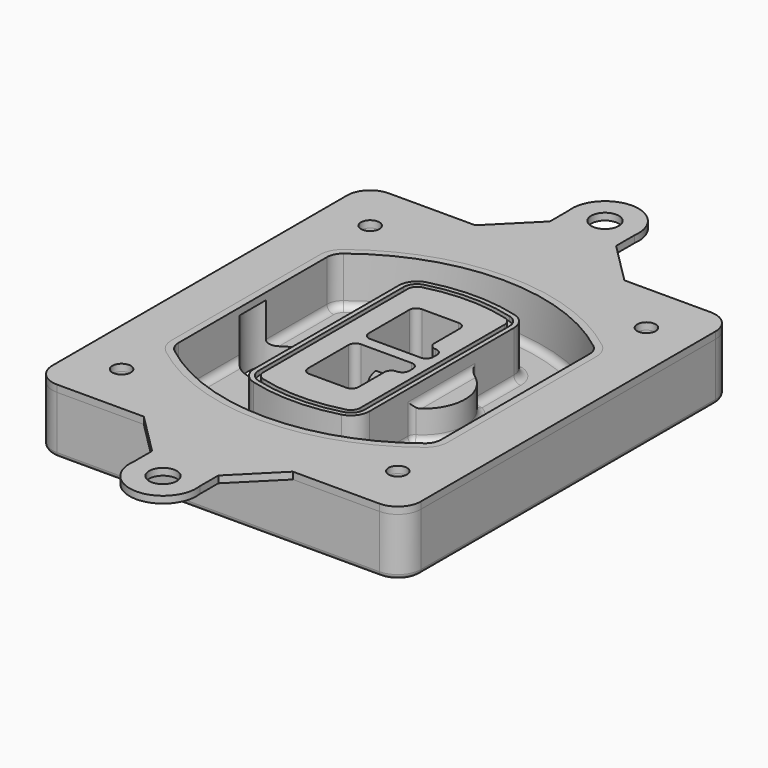
from build123d import *

# Parameters (mm, degrees)
F0_R      = 4
F1_DEPTH  = 25
F2_DEPTH  = 3
F3_DEPTH  = 18
F5_DEPTH  = 21
F6_DEPTH  = 2
F8_DEPTH  = 20
F9_DEPTH  = 16
F10_DEPTH = 25
F7_R      = 6
F7_R_2    = 4
F11_DEPTH = 6
F13_DEPTH = 9
F14_R     = 3
F15_R     = 2
F16_R     = 6
F16_R_2   = 4
F17_DEPTH = 3


with BuildPart() as f1:
    # F0 (on Top) → F1 (new body)
    with BuildSketch(Plane.XY):
        with BuildLine():
            ThreePointArc((-80, -80), (-77.0710678119, -87.0710678119), (-70, -90))
            Line((-70, -90), (70, -90))
            ThreePointArc((70, -90), (77.0710678119, -87.0710678119), (80, -80))
            Line((80, -80), (80, 80))
            ThreePointArc((80, 80), (77.0710678119, 87.0710678119), (70, 90))
            Line((70, 90), (-70, 90))
            ThreePointArc((-70, 90), (-77.0710678119, 87.0710678119), (-80, 80))
            Line((-80, 80), (-80, -80))
        make_face()
        with Locations((-60, -67.5)):
            Circle(F0_R, mode=Mode.SUBTRACT)
        with Locations((60, -67.5)):
            Circle(F0_R, mode=Mode.SUBTRACT)
        with Locations((-60, 67.5)):
            Circle(F0_R, mode=Mode.SUBTRACT)
        with BuildLine():
            ThreePointArc((-64, 40.2934422872), (-62.5820384798, 46.4328484224), (-58.6153846154, 51.3286200352))
            ThreePointArc((-58.6153846154, 51.3286200352), (0, 71.5), (58.6153846154, 51.3286200352))
            ThreePointArc((58.6153846154, 51.3286200352), (62.5820384798, 46.4328484224), (64, 40.2934422872))
            Line((64, 40.2934422872), (64, -40.2934422872))
            ThreePointArc((64, -40.2934422872), (62.5820384798, -46.4328484224), (58.6153846154, -51.3286200352))
            ThreePointArc((58.6153846154, -51.3286200352), (0, -71.5), (-58.6153846154, -51.3286200352))
            ThreePointArc((-58.6153846154, -51.3286200352), (-62.5820384798, -46.4328484224), (-64, -40.2934422872))
            Line((-64, -40.2934422872), (-64, 40.2934422872))
        make_face(mode=Mode.SUBTRACT)
        with Locations((60, 67.5)):
            Circle(F0_R, mode=Mode.SUBTRACT)
        with BuildLine():
            ThreePointArc((58.6153846154, 51.3286200352), (0, 71.5), (-58.6153846154, 51.3286200352))
            ThreePointArc((-58.6153846154, 51.3286200352), (-62.5820384798, 46.4328484224), (-64, 40.2934422872))
            Line((-64, 40.2934422872), (-64, -40.2934422872))
            ThreePointArc((-64, -40.2934422872), (-62.5820384798, -46.4328484224), (-58.6153846154, -51.3286200352))
            ThreePointArc((-58.6153846154, -51.3286200352), (0, -71.5), (58.6153846154, -51.3286200352))
            ThreePointArc((58.6153846154, -51.3286200352), (62.5820384798, -46.4328484224), (64, -40.2934422872))
            Line((64, -40.2934422872), (64, 40.2934422872))
            ThreePointArc((64, 40.2934422872), (62.5820384798, 46.4328484224), (58.6153846154, 51.3286200352))
        make_face()
        with BuildLine():
            Line((-60, -40.2934422872), (-60, 40.2934422872))
            ThreePointArc((-60, 40.2934422872), (-58.9871703427, 44.6787323838), (-56.1538461538, 48.1757121072))
            ThreePointArc((-56.1538461538, 48.1757121072), (0, 67.5), (56.1538461538, 48.1757121072))
            ThreePointArc((56.1538461538, 48.1757121072), (58.9871703427, 44.6787323838), (60, 40.2934422872))
            Line((60, 40.2934422872), (60, -40.2934422872))
            ThreePointArc((60, -40.2934422872), (58.9871703427, -44.6787323838), (56.1538461538, -48.1757121072))
            ThreePointArc((56.1538461538, -48.1757121072), (0, -67.5), (-56.1538461538, -48.1757121072))
            ThreePointArc((-56.1538461538, -48.1757121072), (-58.9871703427, -44.6787323838), (-60, -40.2934422872))
        make_face(mode=Mode.SUBTRACT)
        with BuildLine():
            ThreePointArc((-56.1538461538, 48.1757121072), (-58.9871703427, 44.6787323838), (-60, 40.2934422872))
            Line((-60, 40.2934422872), (-60, -40.2934422872))
            ThreePointArc((-60, -40.2934422872), (-58.9871703427, -44.6787323838), (-56.1538461538, -48.1757121072))
            ThreePointArc((-56.1538461538, -48.1757121072), (0, -67.5), (56.1538461538, -48.1757121072))
            ThreePointArc((56.1538461538, -48.1757121072), (58.9871703427, -44.6787323838), (60, -40.2934422872))
            Line((60, -40.2934422872), (60, 40.2934422872))
            ThreePointArc((60, 40.2934422872), (58.9871703427, 44.6787323838), (56.1538461538, 48.1757121072))
            ThreePointArc((56.1538461538, 48.1757121072), (0, 67.5), (-56.1538461538, 48.1757121072))
        make_face()
        with BuildLine():
            ThreePointArc((54.3076923077, 45.8110311612), (56.2910192399, 43.3631453548), (57, 40.2934422872))
            Line((57, 40.2934422872), (57, -40.2934422872))
            ThreePointArc((57, -40.2934422872), (56.2910192399, -43.3631453548), (54.3076923077, -45.8110311612))
            ThreePointArc((54.3076923077, -45.8110311612), (0, -64.5), (-54.3076923077, -45.8110311612))
            ThreePointArc((-54.3076923077, -45.8110311612), (-56.2910192399, -43.3631453548), (-57, -40.2934422872))
            Line((-57, -40.2934422872), (-57, 40.2934422872))
            ThreePointArc((-57, 40.2934422872), (-56.2910192399, 43.3631453548), (-54.3076923077, 45.8110311612))
            ThreePointArc((-54.3076923077, 45.8110311612), (0, 64.5), (54.3076923077, 45.8110311612))
        make_face(mode=Mode.SUBTRACT)
        with BuildLine():
            Line((57, -40.2934422872), (57, 40.2934422872))
            ThreePointArc((57, 40.2934422872), (56.2910192399, 43.3631453548), (54.3076923077, 45.8110311612))
            ThreePointArc((54.3076923077, 45.8110311612), (0, 64.5), (-54.3076923077, 45.8110311612))
            ThreePointArc((-54.3076923077, 45.8110311612), (-56.2910192399, 43.3631453548), (-57, 40.2934422872))
            Line((-57, 40.2934422872), (-57, -40.2934422872))
            ThreePointArc((-57, -40.2934422872), (-56.2910192399, -43.3631453548), (-54.3076923077, -45.8110311612))
            ThreePointArc((-54.3076923077, -45.8110311612), (0, -64.5), (54.3076923077, -45.8110311612))
            ThreePointArc((54.3076923077, -45.8110311612), (56.2910192399, -43.3631453548), (57, -40.2934422872))
        make_face()
    extrude(amount=-F1_DEPTH)

    # F0 (on Top) → F2 (join)
    with BuildSketch(Plane.XY):
        with BuildLine():
            ThreePointArc((-56.1538461538, 48.1757121072), (-58.9871703427, 44.6787323838), (-60, 40.2934422872))
            Line((-60, 40.2934422872), (-60, -40.2934422872))
            ThreePointArc((-60, -40.2934422872), (-58.9871703427, -44.6787323838), (-56.1538461538, -48.1757121072))
            ThreePointArc((-56.1538461538, -48.1757121072), (0, -67.5), (56.1538461538, -48.1757121072))
            ThreePointArc((56.1538461538, -48.1757121072), (58.9871703427, -44.6787323838), (60, -40.2934422872))
            Line((60, -40.2934422872), (60, 40.2934422872))
            ThreePointArc((60, 40.2934422872), (58.9871703427, 44.6787323838), (56.1538461538, 48.1757121072))
            ThreePointArc((56.1538461538, 48.1757121072), (0, 67.5), (-56.1538461538, 48.1757121072))
        make_face()
        with BuildLine():
            ThreePointArc((54.3076923077, 45.8110311612), (56.2910192399, 43.3631453548), (57, 40.2934422872))
            Line((57, 40.2934422872), (57, -40.2934422872))
            ThreePointArc((57, -40.2934422872), (56.2910192399, -43.3631453548), (54.3076923077, -45.8110311612))
            ThreePointArc((54.3076923077, -45.8110311612), (0, -64.5), (-54.3076923077, -45.8110311612))
            ThreePointArc((-54.3076923077, -45.8110311612), (-56.2910192399, -43.3631453548), (-57, -40.2934422872))
            Line((-57, -40.2934422872), (-57, 40.2934422872))
            ThreePointArc((-57, 40.2934422872), (-56.2910192399, 43.3631453548), (-54.3076923077, 45.8110311612))
            ThreePointArc((-54.3076923077, 45.8110311612), (0, 64.5), (54.3076923077, 45.8110311612))
        make_face(mode=Mode.SUBTRACT)
    extrude(amount=F2_DEPTH)

    # F0 (on Top) → F3 (cut)
    with BuildSketch(Plane.XY):
        with BuildLine():
            Line((57, -40.2934422872), (57, 40.2934422872))
            ThreePointArc((57, 40.2934422872), (56.2910192399, 43.3631453548), (54.3076923077, 45.8110311612))
            ThreePointArc((54.3076923077, 45.8110311612), (0, 64.5), (-54.3076923077, 45.8110311612))
            ThreePointArc((-54.3076923077, 45.8110311612), (-56.2910192399, 43.3631453548), (-57, 40.2934422872))
            Line((-57, 40.2934422872), (-57, -40.2934422872))
            ThreePointArc((-57, -40.2934422872), (-56.2910192399, -43.3631453548), (-54.3076923077, -45.8110311612))
            ThreePointArc((-54.3076923077, -45.8110311612), (0, -64.5), (54.3076923077, -45.8110311612))
            ThreePointArc((54.3076923077, -45.8110311612), (56.2910192399, -43.3631453548), (57, -40.2934422872))
        make_face()
    extrude(amount=-F3_DEPTH, mode=Mode.SUBTRACT)

    # F4 (on face) → F5 (join, through all)
    with BuildSketch(Plane.XY.offset(3)):
        with BuildLine():
            ThreePointArc((-25, -39.2465276821), (-23.3511545998, -44.1109737193), (-19.0842911877, -46.9702398883))
            ThreePointArc((-19.0842911877, -46.9702398883), (0, -49.5), (19.0842911877, -46.9702398883))
            ThreePointArc((19.0842911877, -46.9702398883), (23.3511545998, -44.1109737193), (25, -39.2465276821))
            Line((25, -39.2465276821), (25, 39.2465276821))
            ThreePointArc((25, 39.2465276821), (23.3511545998, 44.1109737193), (19.0842911877, 46.9702398883))
            ThreePointArc((19.0842911877, 46.9702398883), (0, 49.5), (-19.0842911877, 46.9702398883))
            ThreePointArc((-19.0842911877, 46.9702398883), (-23.3511545998, 44.1109737193), (-25, 39.2465276821))
            Line((-25, 39.2465276821), (-25, -39.2465276821))
        make_face()
        with BuildLine():
            ThreePointArc((18.5632183908, 45.0393118368), (21.7633659499, 42.89486221), (23, 39.2465276821))
            Line((23, 39.2465276821), (23, -39.2465276821))
            ThreePointArc((23, -39.2465276821), (21.7633659499, -42.89486221), (18.5632183908, -45.0393118368))
            ThreePointArc((18.5632183908, -45.0393118368), (0, -47.5), (-18.5632183908, -45.0393118368))
            ThreePointArc((-18.5632183908, -45.0393118368), (-21.7633659499, -42.89486221), (-23, -39.2465276821))
            Line((-23, -39.2465276821), (-23, 39.2465276821))
            ThreePointArc((-23, 39.2465276821), (-21.7633659499, 42.89486221), (-18.5632183908, 45.0393118368))
            ThreePointArc((-18.5632183908, 45.0393118368), (0, 47.5), (18.5632183908, 45.0393118368))
        make_face(mode=Mode.SUBTRACT)
        with BuildLine():
            Line((23, -39.2465276821), (23, 39.2465276821))
            ThreePointArc((23, 39.2465276821), (21.7633659499, 42.89486221), (18.5632183908, 45.0393118368))
            ThreePointArc((18.5632183908, 45.0393118368), (0, 47.5), (-18.5632183908, 45.0393118368))
            ThreePointArc((-18.5632183908, 45.0393118368), (-21.7633659499, 42.89486221), (-23, 39.2465276821))
            Line((-23, 39.2465276821), (-23, -39.2465276821))
            ThreePointArc((-23, -39.2465276821), (-21.7633659499, -42.89486221), (-18.5632183908, -45.0393118368))
            ThreePointArc((-18.5632183908, -45.0393118368), (0, -47.5), (18.5632183908, -45.0393118368))
            ThreePointArc((18.5632183908, -45.0393118368), (21.7633659499, -42.89486221), (23, -39.2465276821))
        make_face()
        with BuildLine():
            ThreePointArc((18.0421455939, 43.1083837852), (20.1755772999, 41.6787507007), (21, 39.2465276821))
            Line((21, 39.2465276821), (21, -39.2465276821))
            ThreePointArc((21, -39.2465276821), (20.1755772999, -41.6787507007), (18.0421455939, -43.1083837852))
            ThreePointArc((18.0421455939, -43.1083837852), (0, -45.5), (-18.0421455939, -43.1083837852))
            ThreePointArc((-18.0421455939, -43.1083837852), (-20.1755772999, -41.6787507007), (-21, -39.2465276821))
            Line((-21, -39.2465276821), (-21, 39.2465276821))
            ThreePointArc((-21, 39.2465276821), (-20.1755772999, 41.6787507007), (-18.0421455939, 43.1083837852))
            ThreePointArc((-18.0421455939, 43.1083837852), (0, 45.5), (18.0421455939, 43.1083837852))
        make_face(mode=Mode.SUBTRACT)
        with BuildLine():
            Line((21, -39.2465276821), (21, 39.2465276821))
            ThreePointArc((21, 39.2465276821), (20.1755772999, 41.6787507007), (18.0421455939, 43.1083837852))
            ThreePointArc((18.0421455939, 43.1083837852), (0, 45.5), (-18.0421455939, 43.1083837852))
            ThreePointArc((-18.0421455939, 43.1083837852), (-20.1755772999, 41.6787507007), (-21, 39.2465276821))
            Line((-21, 39.2465276821), (-21, -39.2465276821))
            ThreePointArc((-21, -39.2465276821), (-20.1755772999, -41.6787507007), (-18.0421455939, -43.1083837852))
            ThreePointArc((-18.0421455939, -43.1083837852), (0, -45.5), (18.0421455939, -43.1083837852))
            ThreePointArc((18.0421455939, -43.1083837852), (20.1755772999, -41.6787507007), (21, -39.2465276821))
        make_face()
        with BuildLine():
            Line((-8, -2.5), (14, -2.5))
            ThreePointArc((14, -2.5), (16.1213203436, -3.3786796564), (17, -5.5))
            Line((17, -5.5), (17, -7.5))
            ThreePointArc((17, -7.5), (16.1213203436, -9.6213203436), (14, -10.5))
            ThreePointArc((14, -10.5), (11.8786796564, -11.3786796564), (11, -13.5))
            Line((11, -13.5), (11, -27.5))
            ThreePointArc((11, -27.5), (10.1213203436, -29.6213203436), (8, -30.5))
            Line((8, -30.5), (-8, -30.5))
            ThreePointArc((-8, -30.5), (-10.1213203436, -29.6213203436), (-11, -27.5))
            Line((-11, -27.5), (-11, -5.5))
            ThreePointArc((-11, -5.5), (-10.1213203436, -3.3786796564), (-8, -2.5))
        make_face(mode=Mode.SUBTRACT)
        with BuildLine():
            ThreePointArc((-8, 2.5), (-10.1213203436, 3.3786796564), (-11, 5.5))
            Line((-11, 5.5), (-11, 27.5))
            ThreePointArc((-11, 27.5), (-10.1213203436, 29.6213203436), (-8, 30.5))
            Line((-8, 30.5), (8, 30.5))
            ThreePointArc((8, 30.5), (10.1213203436, 29.6213203436), (11, 27.5))
            Line((11, 27.5), (11, 13.5))
            ThreePointArc((11, 13.5), (11.8786796564, 11.3786796564), (14, 10.5))
            ThreePointArc((14, 10.5), (16.1213203436, 9.6213203436), (17, 7.5))
            Line((17, 7.5), (17, 5.5))
            ThreePointArc((17, 5.5), (16.1213203436, 3.3786796564), (14, 2.5))
            Line((14, 2.5), (-8, 2.5))
        make_face(mode=Mode.SUBTRACT)
    extrude(amount=-F5_DEPTH)

    # F4 (on face) → F6 (cut)
    with BuildSketch(Plane.XY.offset(3)):
        with BuildLine():
            Line((23, -39.2465276821), (23, 39.2465276821))
            ThreePointArc((23, 39.2465276821), (21.7633659499, 42.89486221), (18.5632183908, 45.0393118368))
            ThreePointArc((18.5632183908, 45.0393118368), (0, 47.5), (-18.5632183908, 45.0393118368))
            ThreePointArc((-18.5632183908, 45.0393118368), (-21.7633659499, 42.89486221), (-23, 39.2465276821))
            Line((-23, 39.2465276821), (-23, -39.2465276821))
            ThreePointArc((-23, -39.2465276821), (-21.7633659499, -42.89486221), (-18.5632183908, -45.0393118368))
            ThreePointArc((-18.5632183908, -45.0393118368), (0, -47.5), (18.5632183908, -45.0393118368))
            ThreePointArc((18.5632183908, -45.0393118368), (21.7633659499, -42.89486221), (23, -39.2465276821))
        make_face()
        with BuildLine():
            ThreePointArc((18.0421455939, 43.1083837852), (20.1755772999, 41.6787507007), (21, 39.2465276821))
            Line((21, 39.2465276821), (21, -39.2465276821))
            ThreePointArc((21, -39.2465276821), (20.1755772999, -41.6787507007), (18.0421455939, -43.1083837852))
            ThreePointArc((18.0421455939, -43.1083837852), (0, -45.5), (-18.0421455939, -43.1083837852))
            ThreePointArc((-18.0421455939, -43.1083837852), (-20.1755772999, -41.6787507007), (-21, -39.2465276821))
            Line((-21, -39.2465276821), (-21, 39.2465276821))
            ThreePointArc((-21, 39.2465276821), (-20.1755772999, 41.6787507007), (-18.0421455939, 43.1083837852))
            ThreePointArc((-18.0421455939, 43.1083837852), (0, 45.5), (18.0421455939, 43.1083837852))
        make_face(mode=Mode.SUBTRACT)
    extrude(amount=-F6_DEPTH, mode=Mode.SUBTRACT)

    # F7 (on face) → F8 (join)
    with BuildSketch(Plane(origin=(0, 0, -25), x_dir=(1, 0, 0), z_dir=(0, 0, -1))):
        with BuildLine():
            ThreePointArc((3.28842436, 0), (16.7567035675, 13.4682792075), (30.224982775, 0))
            Line((30.224982775, 0), (35.224982775, 0))
            ThreePointArc((35.224982775, 0), (16.7567035675, 18.4682792075), (-1.71157564, 0))
            Line((-1.71157564, 0), (3.28842436, 0))
        make_face()
        with BuildLine():
            Line((3.28842436, 0), (30.224982775, 0))
            ThreePointArc((30.224982775, 0), (16.7567035675, 13.4682792075), (3.28842436, 0))
        make_face()
        with BuildLine():
            ThreePointArc((3.28842436, 0), (16.7567035675, -13.4682792075), (30.224982775, 0))
            Line((30.224982775, 0), (3.28842436, 0))
        make_face()
        with BuildLine():
            Line((35.224982775, 0), (30.224982775, 0))
            ThreePointArc((30.224982775, 0), (16.7567035675, -13.4682792075), (3.28842436, 0))
            Line((3.28842436, 0), (-1.71157564, 0))
            ThreePointArc((-1.71157564, 0), (16.7567035675, -18.4682792075), (35.224982775, 0))
        make_face()
    extrude(amount=-F8_DEPTH)

    # F7 (on face) → F9 (cut)
    with BuildSketch(Plane(origin=(0, 0, -25), x_dir=(1, 0, 0), z_dir=(0, 0, -1))):
        with BuildLine():
            Line((3.28842436, 0), (30.224982775, 0))
            ThreePointArc((30.224982775, 0), (16.7567035675, 13.4682792075), (3.28842436, 0))
        make_face()
        with BuildLine():
            ThreePointArc((3.28842436, 0), (16.7567035675, -13.4682792075), (30.224982775, 0))
            Line((30.224982775, 0), (3.28842436, 0))
        make_face()
    extrude(amount=-F9_DEPTH, mode=Mode.SUBTRACT)

    # F7 (on face) → F10 (cut)
    with BuildSketch(Plane(origin=(0, 0, -25), x_dir=(1, 0, 0), z_dir=(0, 0, -1))):
        with BuildLine():
            Line((-59.0318229325, 0), (-32.0952645175, 0))
            ThreePointArc((-32.0952645175, 0), (-45.563543725, 13.4682792075), (-59.0318229325, 0))
        make_face()
        with BuildLine():
            ThreePointArc((-59.0318229325, 0), (-45.563543725, -13.4682792075), (-32.0952645175, 0))
            Line((-32.0952645175, 0), (-59.0318229325, 0))
        make_face()
    extrude(amount=-F10_DEPTH, mode=Mode.SUBTRACT)

    # F7 (on face) → F11 (cut)
    with BuildSketch(Plane(origin=(0, 0, -25), x_dir=(1, 0, 0), z_dir=(0, 0, -1))):
        with Locations((60, -67.5)):
            Circle(F7_R)
        with Locations((60, -67.5)):
            Circle(F7_R_2, mode=Mode.SUBTRACT)
        with Locations((60, -67.5)):
            Circle(F7_R)
        with Locations((60, -67.5)):
            Circle(F7_R_2, mode=Mode.SUBTRACT)
        with Locations((-60, -67.5)):
            Circle(F7_R)
        with Locations((-60, -67.5)):
            Circle(F7_R_2, mode=Mode.SUBTRACT)
        with Locations((-60, -67.5)):
            Circle(F7_R)
        with Locations((-60, -67.5)):
            Circle(F7_R_2, mode=Mode.SUBTRACT)
        with Locations((-60, 67.5)):
            Circle(F7_R)
        with Locations((-60, 67.5)):
            Circle(F7_R_2, mode=Mode.SUBTRACT)
        with Locations((-60, 67.5)):
            Circle(F7_R)
        with Locations((-60, 67.5)):
            Circle(F7_R_2, mode=Mode.SUBTRACT)
        with Locations((60, 67.5)):
            Circle(F7_R)
        with Locations((60, 67.5)):
            Circle(F7_R_2, mode=Mode.SUBTRACT)
        with Locations((60, 67.5)):
            Circle(F7_R)
        with Locations((60, 67.5)):
            Circle(F7_R_2, mode=Mode.SUBTRACT)
    extrude(amount=-F11_DEPTH, mode=Mode.SUBTRACT)

    # F12 (on face) → F13 (cut, through all)
    with BuildSketch(Plane(origin=(0, 0, -9), x_dir=(1, 0, 0), z_dir=(0, 0, -1))):
        with BuildLine():
            Line((11, 13.5), (11, 17.5481537753))
            ThreePointArc((11, 17.5481537753), (2.5696536419, 11.8239143813), (-1.5415842455, 2.5))
            Line((-1.5415842455, 2.5), (3.5224848595, 2.5))
            ThreePointArc((3.5224848595, 2.5), (6.1857188154, 8.3455872281), (11.2536447004, 12.2927168648))
            ThreePointArc((11.2536447004, 12.2927168648), (11.0640958889, 12.8831798879), (11, 13.5))
        make_face()
        with BuildLine():
            ThreePointArc((11.2536447004, -12.2927168648), (6.1857188154, -8.3455872281), (3.5224848595, -2.5))
            Line((3.5224848595, -2.5), (-1.5415842455, -2.5))
            ThreePointArc((-1.5415842455, -2.5), (2.5696536419, -11.8239143813), (11, -17.5481537753))
            Line((11, -17.5481537753), (11, -13.5))
            ThreePointArc((11, -13.5), (11.0640958889, -12.8831798879), (11.2536447004, -12.2927168648))
        make_face()
        with BuildLine():
            ThreePointArc((11.2536447004, 12.2927168648), (6.1857188154, 8.3455872281), (3.5224848595, 2.5))
            Line((3.5224848595, 2.5), (14, 2.5))
            ThreePointArc((14, 2.5), (16.1213203436, 3.3786796564), (17, 5.5))
            Line((17, 5.5), (17, 7.5))
            ThreePointArc((17, 7.5), (16.1213203436, 9.6213203436), (14, 10.5))
            ThreePointArc((14, 10.5), (12.3601599782, 10.9878446101), (11.2536447004, 12.2927168648))
        make_face()
        with BuildLine():
            Line((14, -2.5), (3.5224848595, -2.5))
            ThreePointArc((3.5224848595, -2.5), (6.1857188154, -8.3455872281), (11.2536447004, -12.2927168648))
            ThreePointArc((11.2536447004, -12.2927168648), (12.3601599782, -10.9878446101), (14, -10.5))
            ThreePointArc((14, -10.5), (16.1213203436, -9.6213203436), (17, -7.5))
            Line((17, -7.5), (17, -5.5))
            ThreePointArc((17, -5.5), (16.1213203436, -3.3786796564), (14, -2.5))
        make_face()
    extrude(amount=F13_DEPTH, mode=Mode.SUBTRACT)

    # F14
    f14_edges = [f1.edges().sort_by_distance(p)[0] for p in [
        (-57, -23.703476, -18),
        (-57, 23.703476, -18),
        (25, 0, -5),
        (25, 16.526506, -11.5),
        (25, -16.526506, -11.5),
        (25, -27.886517, -18),
        (35.224983, 0, -18),
    ]]
    fillet(f14_edges, radius=F14_R)

    # F15
    f15_edges = [f1.edges().sort_by_distance(p)[0] for p in [
        (0, -90, -25),
    ]]
    fillet(f15_edges, radius=F15_R)


with BuildPart() as f17:
    # F16 (on face) → F17 (new body, through all)
    with BuildSketch(Plane.XY):
        with BuildLine():
            Line((-14.3313579264, 108), (-32.3313579264, 90))
            Line((-32.3313579264, 90), (32.4155339328, 90))
            Line((32.4155339328, 90), (14.4153134897, 108))
            Line((14.4153134897, 108), (14.4153134897, 118))
            ThreePointArc((14.4153134897, 118), (0.0419777817, 134.5326819761), (-14.3313579264, 118))
            Line((-14.3313579264, 118), (-14.3313579264, 108))
        make_face()
        with Locations((0, 120)):
            Circle(F16_R, mode=Mode.SUBTRACT)
        with BuildLine():
            Line((-80, 80), (-80, -80))
            ThreePointArc((-80, -80), (-77.0710678119, -87.0710678119), (-70, -90))
            Line((-70, -90), (-32.3313579264, -90))
            Line((-32.3313579264, -90), (32.4155339328, -90))
            Line((32.4155339328, -90), (70, -90))
            ThreePointArc((70, -90), (77.0710678119, -87.0710678119), (80, -80))
            Line((80, -80), (80, 80))
            ThreePointArc((80, 80), (77.0710678119, 87.0710678119), (70, 90))
            Line((70, 90), (32.4155339328, 90))
            Line((32.4155339328, 90), (-32.3313579264, 90))
            Line((-32.3313579264, 90), (-70, 90))
            ThreePointArc((-70, 90), (-77.0710678119, 87.0710678119), (-80, 80))
        make_face()
        with Locations((-60, -67.5)):
            Circle(F16_R_2, mode=Mode.SUBTRACT)
        with Locations((60, -67.5)):
            Circle(F16_R_2, mode=Mode.SUBTRACT)
        with Locations((-60, 67.5)):
            Circle(F16_R_2, mode=Mode.SUBTRACT)
        with BuildLine():
            ThreePointArc((56.1538461538, -48.1757121072), (0, -67.5), (-56.1538461538, -48.1757121072))
            ThreePointArc((-56.1538461538, -48.1757121072), (-58.9871703427, -44.6787323838), (-60, -40.2934422872))
            Line((-60, -40.2934422872), (-60, 40.2934422872))
            ThreePointArc((-60, 40.2934422872), (-58.9871703427, 44.6787323838), (-56.1538461538, 48.1757121072))
            ThreePointArc((-56.1538461538, 48.1757121072), (0, 67.5), (56.1538461538, 48.1757121072))
            ThreePointArc((56.1538461538, 48.1757121072), (58.9871703427, 44.6787323838), (60, 40.2934422872))
            Line((60, 40.2934422872), (60, -40.2934422872))
            ThreePointArc((60, -40.2934422872), (58.9871703427, -44.6787323838), (56.1538461538, -48.1757121072))
        make_face(mode=Mode.SUBTRACT)
        with Locations((60, 67.5)):
            Circle(F16_R_2, mode=Mode.SUBTRACT)
        with BuildLine():
            Line((32.4155339328, -90), (-32.3313579264, -90))
            Line((-32.3313579264, -90), (-14.3313579264, -108))
            Line((-14.3313579264, -108), (-14.3313579264, -118))
            ThreePointArc((-14.3313579264, -118), (0.0419777817, -134.5326819761), (14.4153134897, -118))
            Line((14.4153134897, -118), (14.4153134897, -108))
            Line((14.4153134897, -108), (32.4155339328, -90))
        make_face()
        with Locations((0, -120)):
            Circle(F16_R, mode=Mode.SUBTRACT)
    extrude(amount=F17_DEPTH)


solid = Compound([f1.part, f17.part])
